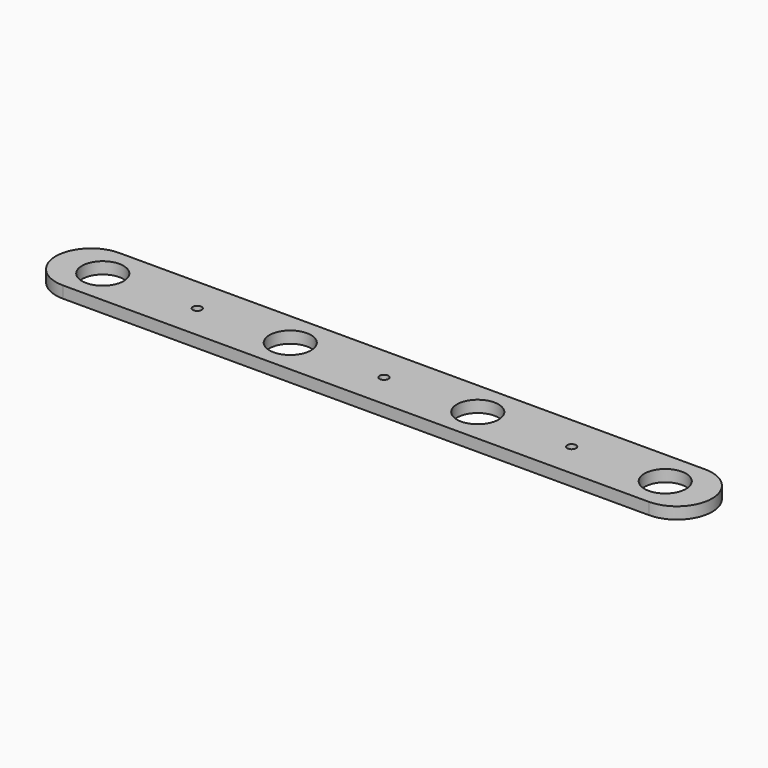
from build123d import *

# Parameters (mm, degrees)
F0_R     = 11.24966
F2_DEPTH = 6.35
F1_R     = 2.38125
F3_DEPTH = 25.4


with BuildPart() as f2:
    # F0 (on Top) → F2 (new body)
    with BuildSketch(Plane.XY):
        with BuildLine():
            Line((158.75, 19.05), (-158.75, 19.05))
            ThreePointArc((-158.75, 19.05), (-177.8, 0), (-158.75, -19.05))
            Line((-158.75, -19.05), (158.75, -19.05))
            ThreePointArc((158.75, -19.05), (177.8, 0), (158.75, 19.05))
        make_face()
        with Locations((-152.4, 0)):
            Circle(F0_R, mode=Mode.SUBTRACT)
        with Locations((-50.8, 0)):
            Circle(F0_R, mode=Mode.SUBTRACT)
        with Locations((50.8, 0)):
            Circle(F0_R, mode=Mode.SUBTRACT)
        with Locations((152.4, 0)):
            Circle(F0_R, mode=Mode.SUBTRACT)
    extrude(amount=F2_DEPTH)

    # F1 (on Top) → F3 (cut)
    with BuildSketch(Plane.XY):
        with Locations((-101.185985, 0)):
            Circle(F1_R)
        Circle(F1_R)
        with Locations((101.683818, 0)):
            Circle(F1_R)
    extrude(amount=F3_DEPTH, mode=Mode.SUBTRACT)


solid = f2.part
